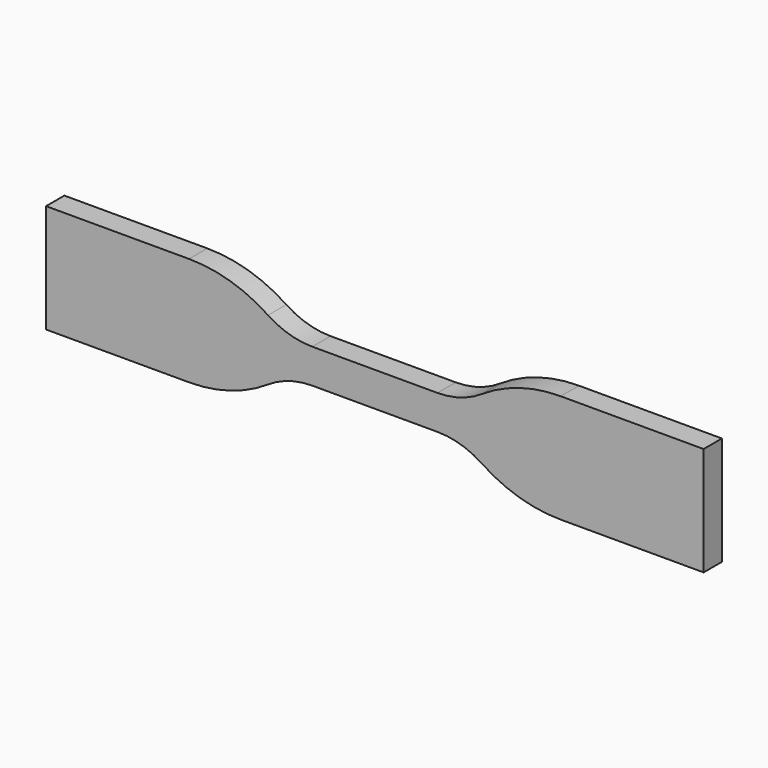
from build123d import *

# Parameters (mm, degrees)
F1_DEPTH = 2


with BuildPart() as f1:
    # F0 (on Front) → F1 (new body, symmetric)
    with BuildSketch(Plane.XZ):
        with BuildLine():
            Line((10.941939, 3), (0, 3))
            Line((0, 3), (-10.941939, 3))
            ThreePointArc((-10.941939, 3), (-14.983391, 3.59602), (-18.68073, 5.333333))
            ThreePointArc((-18.68073, 5.333333), (-25.283122, 8.435678), (-32.5, 9.5))
            Line((-32.5, 9.5), (-57.5, 9.5))
            Line((-57.5, 9.5), (-57.5, -9.5))
            Line((-57.5, -9.5), (-32.5, -9.5))
            ThreePointArc((-32.5, -9.5), (-25.283122, -8.435678), (-18.68073, -5.333333))
            ThreePointArc((-18.68073, -5.333333), (-14.983391, -3.59602), (-10.941939, -3))
            Line((-10.941939, -3), (0, -3))
            Line((0, -3), (10.941939, -3))
            ThreePointArc((10.941939, -3), (14.983391, -3.59602), (18.68073, -5.333333))
            ThreePointArc((18.68073, -5.333333), (25.283122, -8.435678), (32.5, -9.5))
            Line((32.5, -9.5), (57.5, -9.5))
            Line((57.5, -9.5), (57.5, 9.5))
            Line((57.5, 9.5), (32.5, 9.5))
            ThreePointArc((32.5, 9.5), (25.283122, 8.435678), (18.68073, 5.333333))
            ThreePointArc((18.68073, 5.333333), (14.983391, 3.59602), (10.941939, 3))
        make_face()
    extrude(amount=F1_DEPTH, both=True)


solid = f1.part
